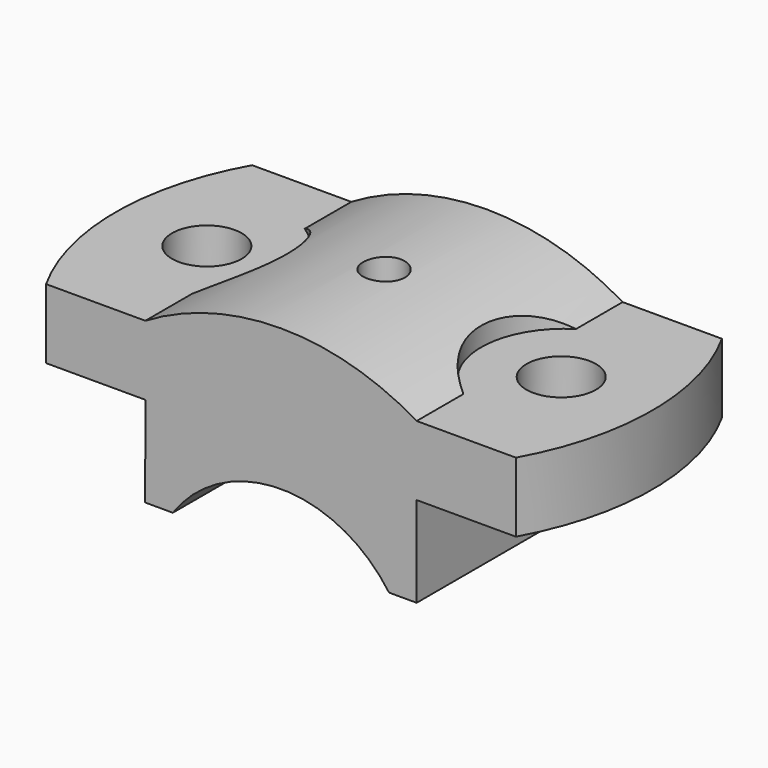
from build123d import *

# Parameters (mm, degrees)
F1_DEPTH  = 37
F2_R      = 2
F3_DEPTH  = 25.4
F4_R      = 5
F2_W      = 38.9878123262
F2_H      = 37
F5_DEPTH  = 10
F6_R      = 3
F7_DEPTH  = 10
F9_DEPTH  = 25.4
F11_DEPTH = 25.4


with BuildPart() as f1:
    # F0 (on Front) → F1 (new body)
    with BuildSketch(Plane.XZ):
        with BuildLine():
            Line((-75.544338002, 59.8869249225), (-114.5321503282, 59.8869249225))
            Line((-114.5321503282, 59.8869249225), (-114.5509034395, 46.8869249225))
            Line((-114.5509034395, 46.8869249225), (-110.5809034395, 46.8811980108))
            ThreePointArc((-110.5809034395, 46.8811980108), (-95.048956228, 54.9422402402), (-79.514338002, 46.8863465853))
            Line((-79.514338002, 46.8863465853), (-75.544338002, 46.8863465853))
            Line((-75.544338002, 46.8863465853), (-75.544338002, 59.8869249225))
        make_face()
    extrude(amount=F1_DEPTH)

    # F2 (on face) → F3 (cut)
    with BuildSketch(Plane.XY.offset(59.8869249225)):
        with Locations((-95.0382441651, -18.5)):
            Circle(F2_R)
    extrude(amount=-F3_DEPTH, mode=Mode.SUBTRACT)

    # F4 (on face) + F2 (on face) → F5 (join)
    with BuildSketch(Plane.XY.offset(59.8869249225)):
        with BuildLine():
            Line((-75.544338002, -37), (-61.284338002, -37))
            ThreePointArc((-61.284338002, -37), (-56.4913599263, -18.5), (-61.284338002, 0))
            Line((-61.284338002, 0), (-75.544338002, 0))
            Line((-75.544338002, 0), (-75.544338002, -37))
        make_face()
        with Locations((-69.575338002, -18.5)):
            Circle(F4_R, mode=Mode.SUBTRACT)
        with BuildLine():
            Line((-128.7921503282, -37), (-114.5321503282, -37))
            Line((-114.5321503282, -37), (-114.5321503282, 0))
            Line((-114.5321503282, 0), (-128.7921503282, 0))
            ThreePointArc((-128.7921503282, 0), (-133.6226710865, -18.5), (-128.7921503282, -37))
        make_face()
        with Locations((-120.4896494746, -18.5)):
            Circle(F4_R, mode=Mode.SUBTRACT)
    with BuildSketch(Plane.XY.offset(59.8869249225)):
        with Locations((-95.0382441651, -18.5)):
            Rectangle(F2_W, F2_H)
        with Locations((-95.0382441651, -18.5)):
            Circle(F2_R, mode=Mode.SUBTRACT)
    extrude(amount=F5_DEPTH)

    # F6 (on face) → F7 (join)
    with BuildSketch(Plane.XY.offset(69.8869249225)):
        with BuildLine():
            Line((-75.544338002, 0), (-114.5321503282, 0))
            Line((-114.5321503282, 0), (-114.5321503282, -8.38))
            ThreePointArc((-114.5321503282, -8.38), (-108.9808401176, -18.5), (-114.5321503282, -28.62))
            Line((-114.5321503282, -28.62), (-114.5321503282, -37))
            Line((-114.5321503282, -37), (-75.544338002, -37))
            Line((-75.544338002, -37), (-75.544338002, -28.62))
            ThreePointArc((-75.544338002, -28.62), (-81.0956482126, -18.5), (-75.544338002, -8.38))
            Line((-75.544338002, -8.38), (-75.544338002, 0))
        make_face()
        with Locations((-95.0382441651, -18.5)):
            Circle(F6_R, mode=Mode.SUBTRACT)
    extrude(amount=F7_DEPTH)

    # F8 (on face) → F9 (cut)
    with BuildSketch(Plane(origin=(0, 0, 0), x_dir=(-1, 0, 0), z_dir=(0, 1, 0))):
        with BuildLine():
            ThreePointArc((75.544338002, 69.8869249225), (95.0382441651, 75.2681017907), (114.5321503282, 69.8869249225))
            Line((114.5321503282, 69.8869249225), (114.5321503282, 79.8869249225))
            Line((114.5321503282, 79.8869249225), (75.544338002, 79.8869249225))
            Line((75.544338002, 79.8869249225), (75.544338002, 69.8869249225))
        make_face()
        with BuildLine():
            ThreePointArc((75.544338002, 69.8869249225), (95.0382441651, 75.2681017907), (114.5321503282, 69.8869249225))
            Line((114.5321503282, 69.8869249225), (114.5321503282, 79.8869249225))
            Line((114.5321503282, 79.8869249225), (75.544338002, 79.8869249225))
            Line((75.544338002, 79.8869249225), (75.544338002, 69.8869249225))
        make_face()
    extrude(amount=-F9_DEPTH, mode=Mode.SUBTRACT)

    # F10 (on face) → F11 (cut)
    with BuildSketch(Plane.XZ.offset(37)):
        with BuildLine():
            ThreePointArc((-114.5321503282, 69.8869249225), (-95.0382441651, 75.2681017907), (-75.544338002, 69.8869249225))
            Line((-75.544338002, 69.8869249225), (-75.544338002, 79.8869249225))
            Line((-75.544338002, 79.8869249225), (-114.5321503282, 79.8869249225))
            Line((-114.5321503282, 79.8869249225), (-114.5321503282, 69.8869249225))
        make_face()
    extrude(amount=-F11_DEPTH, mode=Mode.SUBTRACT)


solid = f1.part
